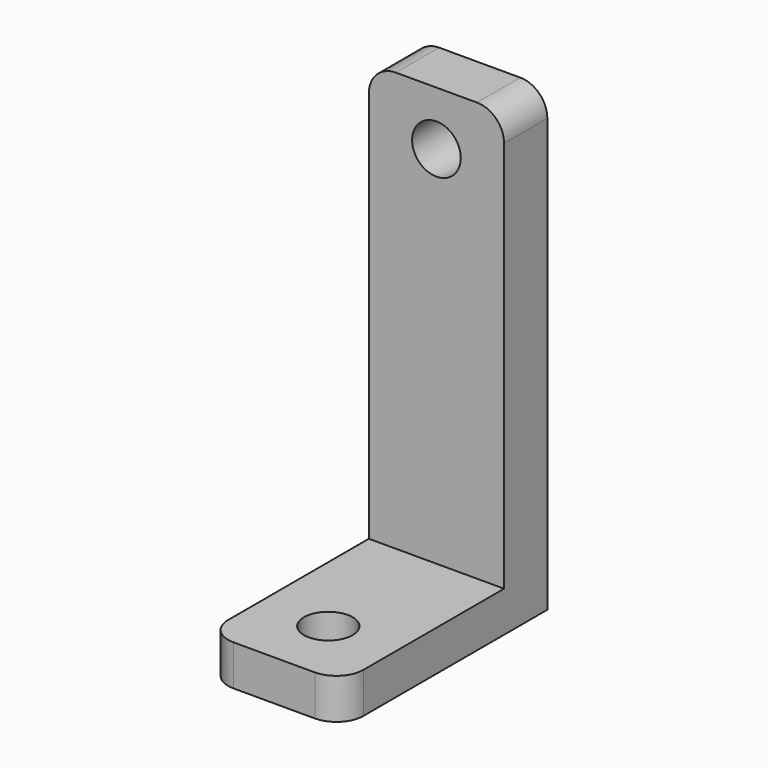
from build123d import *

# Parameters (mm, degrees)
F0_W     = 10
F0_H     = 31
F0_R     = 1.8
F1_DEPTH = 4
F0_H_2   = 3
F2_DEPTH = 19
F3_R     = 1.8
F4_DEPTH = 25
F5_R     = 2


with BuildPart() as f1:
    # F0 (on Front) → F1 (new body)
    with BuildSketch(Plane.XZ):
        with Locations((0.497756, 2.022149)):
            Rectangle(F0_W, F0_H)
        with Locations((0.497756, 13.522149)):
            Circle(F0_R, mode=Mode.SUBTRACT)
    extrude(amount=F1_DEPTH)

    # F0 (on Front) → F2 (join)
    with BuildSketch(Plane.XZ):
        with Locations((0.497756, -14.977851)):
            Rectangle(F0_W, F0_H_2)
    extrude(amount=F2_DEPTH)

    # F3 (on face) → F4 (cut)
    with BuildSketch(Plane.XY.offset(-13.477851)):
        with Locations((0.497756, -14)):
            Circle(F3_R)
    extrude(amount=-F4_DEPTH, mode=Mode.SUBTRACT)

    # F5
    f5_edges = [f1.edges().sort_by_distance(p)[0] for p in [
        (-4.502244, -2, 17.522149),
        (5.497756, -2, 17.522149),
        (5.497756, -19, -14.977851),
        (-4.502244, -19, -14.977851),
    ]]
    fillet(f5_edges, radius=F5_R)


solid = f1.part
